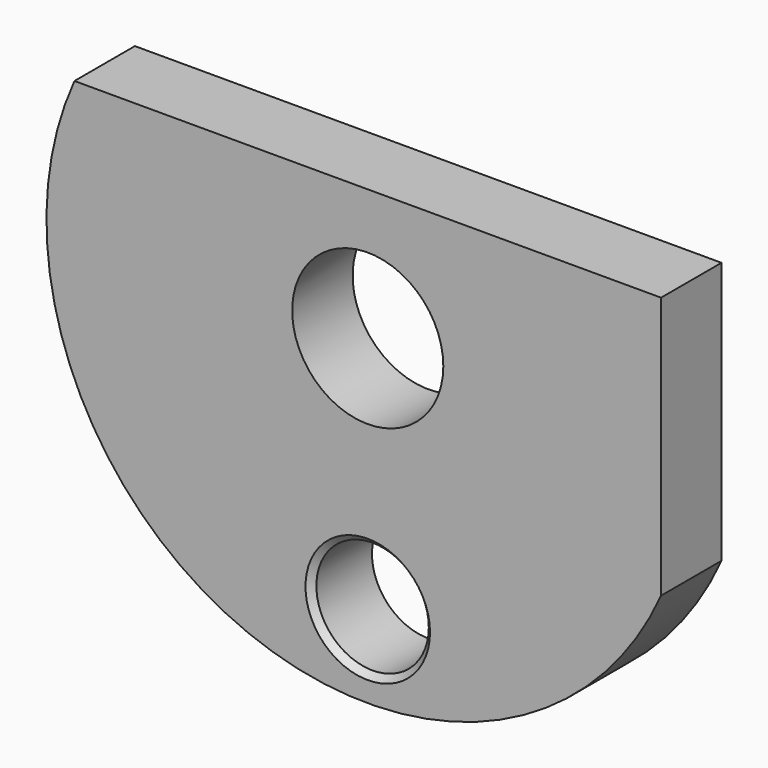
from build123d import *

# Parameters (mm, degrees)
F0_R     = 1.1811
F0_R_2   = 1.5875
F1_DEPTH = 0.79375
F2_SIZE2 = 0.127
F2_SIZE  = 0.127


with BuildPart() as f1:
    # F0 (on Front) → F1 (new body, symmetric)
    with BuildSketch(Plane.XZ):
        with BuildLine():
            Line((5.280381, 3.991776), (-7.04344, 3.991776))
            ThreePointArc((-7.04344, 3.991776), (-3.637121, -4.925726), (5.280381, -1.519407))
            Line((5.280381, -1.519407), (5.280381, 3.991776))
        make_face()
        with Locations((-0.881529, -3.777536)):
            Circle(F0_R, mode=Mode.SUBTRACT)
        with Locations((-0.881529, 1.236185)):
            Circle(F0_R_2, mode=Mode.SUBTRACT)
    extrude(amount=F1_DEPTH, both=True)

    # F2
    f2_edges = [f1.edges().sort_by_distance(p)[0] for p in [
        (-2.062629, -0.79375, -3.777536),
    ]]
    chamfer(f2_edges, length=F2_SIZE, length2=F2_SIZE2)


solid = f1.part
